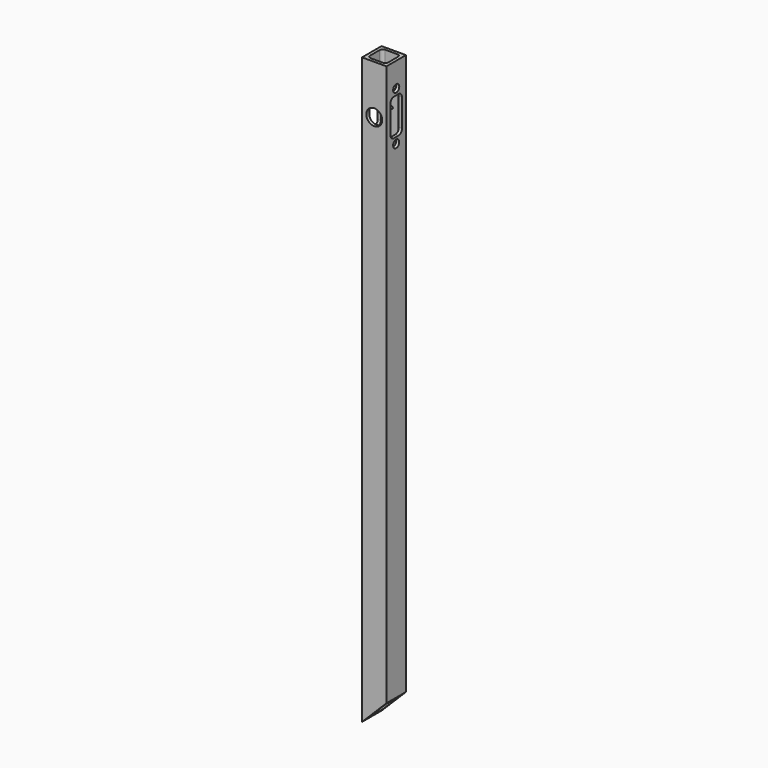
from build123d import *

# Parameters (mm, degrees)
SKETCH005_W     = 25.4
SKETCH005_H     = 25.4
PAD002_DEPTH    = 609.6
SKETCH006_R     = 4
POCKET003_DEPTH = 25.401
POCKET004_DEPTH = 25.401
POCKET007_DEPTH = 25.401
SKETCH012_R     = 8.255
POCKET008_DEPTH = 5.08
SKETCH013_R     = 1.5875
POCKET009_DEPTH = 25.401


with BuildPart() as part:
    # Sketch005 → Pad002 (new body)
    with BuildSketch(Plane.XY):
        Rectangle(SKETCH005_W, SKETCH005_H)
        with BuildLine():
            ThreePointArc((-9.525, -6.35), (-8.595064, -8.595064), (-6.35, -9.525))
            Line((6.35, -9.525), (-6.35, -9.525))
            ThreePointArc((6.35, -9.525), (8.595064, -8.595064), (9.525, -6.35))
            Line((9.525, 6.35), (9.525, -6.35))
            ThreePointArc((9.525, 6.35), (8.595064, 8.595064), (6.35, 9.525))
            Line((-6.35, 9.525), (6.35, 9.525))
            ThreePointArc((-6.35, 9.525), (-8.595064, 8.595064), (-9.525, 6.35))
            Line((-9.525, -6.35), (-9.525, 6.35))
        make_face(mode=Mode.SUBTRACT)
    extrude(amount=PAD002_DEPTH)

    # Sketch006 (on Face3 of Pad002) → Pocket003 (cut, through all)
    with BuildSketch(Plane.YZ.offset(12.7)):
        with Locations((0, 584.2)):
            Circle(SKETCH006_R)
        with Locations((0, 533.4)):
            Circle(SKETCH006_R)
    extrude(amount=-POCKET003_DEPTH, mode=Mode.SUBTRACT)

    # Sketch007 (on Face2 of Pocket003) → Pocket004 (cut, through all)
    with BuildSketch(Plane.XZ.offset(12.7)):
        Polygon((12.7, 25.4), (-12.7, 0), (12.7, 0), align=None)
    extrude(amount=-POCKET004_DEPTH, mode=Mode.SUBTRACT)

    # Sketch011 (on Face1 of Pocket004) → Pocket007 (cut, through all)
    with BuildSketch(Plane(origin=(-12.7, 0, 0), x_dir=(0, -1, 0), z_dir=(-1, 0, 0))):
        with BuildLine():
            ThreePointArc((-7.62, 544.5125), (-6.225096, 541.144904), (-2.8575, 539.75))
            Line((2.8575, 539.75), (-2.8575, 539.75))
            ThreePointArc((2.8575, 539.75), (6.225096, 541.144904), (7.62, 544.5125))
            Line((7.62, 573.0875), (7.62, 544.5125))
            ThreePointArc((7.62, 573.0875), (6.225096, 576.455096), (2.8575, 577.85))
            Line((-2.8575, 577.85), (2.8575, 577.85))
            ThreePointArc((-2.8575, 577.85), (-6.225096, 576.455096), (-7.62, 573.0875))
            Line((-7.62, 544.5125), (-7.62, 573.0875))
        make_face()
    extrude(amount=-POCKET007_DEPTH, mode=Mode.SUBTRACT)

    # Sketch012 (on Face2 of Pocket007) → Pocket008 (cut)
    with BuildSketch(Plane.XZ.offset(12.7)):
        with Locations((0, 558.8)):
            Circle(SKETCH012_R)
    extrude(amount=-POCKET008_DEPTH, mode=Mode.SUBTRACT)

    # Sketch013 (on Face2 of Pocket008) → Pocket009 (cut, through all)
    with BuildSketch(Plane.XZ.offset(12.7)):
        with Locations((0, 558.8)):
            Circle(SKETCH013_R)
    extrude(amount=-POCKET009_DEPTH, mode=Mode.SUBTRACT)


solid = part.part
